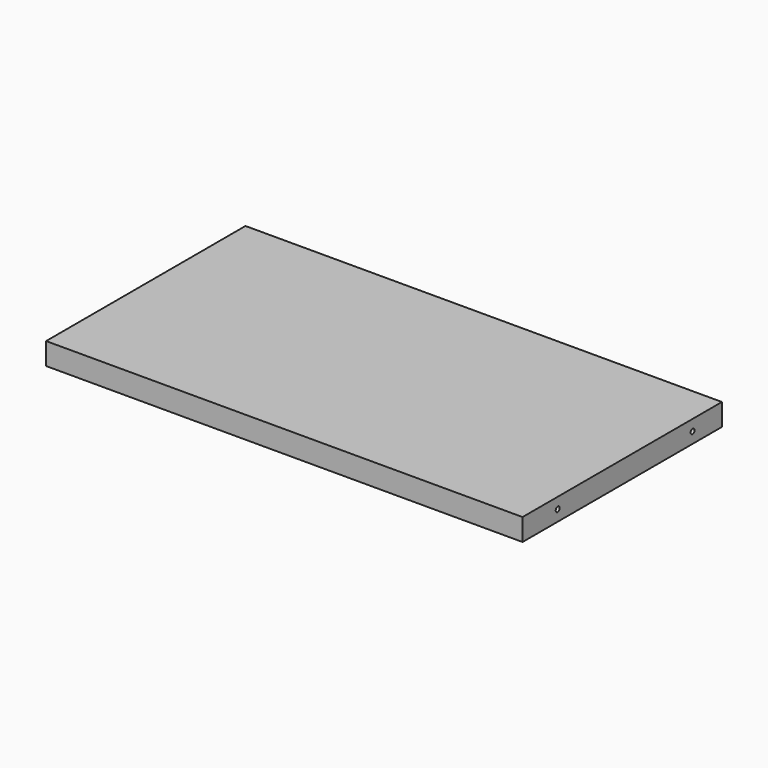
from build123d import *

# Parameters (mm, degrees)
F0_W           = 650
F0_H           = 340
F1_DEPTH       = 30
F4_D           = 6.8
F4_DEPTH       = 20
F4_TIP         = 2.0429261047
F4_ON_F3_D     = 6.8
F4_ON_F3_DEPTH = 20
F4_ON_F3_TIP   = 2.0429261047


with BuildPart() as f1:
    # F0 (on Top) → F1 (new body)
    with BuildSketch(Plane.XY):
        Rectangle(F0_W, F0_H)
    extrude(amount=F1_DEPTH)

    # F4
    with Locations(Plane.YZ.offset(325)):
        with Locations((-110, 15), (120, 15)):
            Hole(F4_D / 2, depth=F4_DEPTH)
            with Locations((0, 0, -(F4_DEPTH + F4_TIP / 2))):  # 118° drill point
                Cone(0, F4_D / 2, F4_TIP, mode=Mode.SUBTRACT)

    # F4 on F3
    with Locations(Plane(origin=(-325, 0, 0), x_dir=(0, -1, 0), z_dir=(-1, 0, 0))):
        with Locations((-120, 15), (110, 15)):
            Hole(F4_ON_F3_D / 2, depth=F4_ON_F3_DEPTH)
            with Locations((0, 0, -(F4_ON_F3_DEPTH + F4_ON_F3_TIP / 2))):  # 118° drill point
                Cone(0, F4_ON_F3_D / 2, F4_ON_F3_TIP, mode=Mode.SUBTRACT)


solid = f1.part
